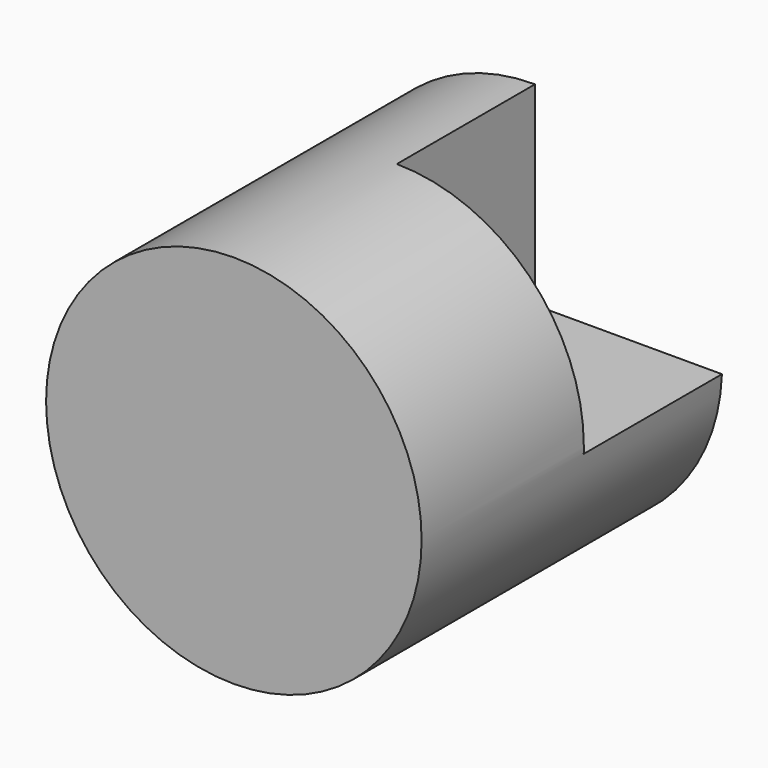
from build123d import *

# Parameters (mm, degrees)
F1_R     = 12.7
F2_DEPTH = 25.4
F0_W     = 25.4
F0_H     = 25.4
F3_DEPTH = 11.684


with BuildPart() as f2:
    # F1 (on Front) → F2 (new body)
    with BuildSketch(Plane.XZ):
        with Locations((-12.998742, 2.529787)):
            Circle(F1_R)
    extrude(amount=F2_DEPTH)

    # F0 (on Front) → F3 (cut)
    with BuildSketch(Plane.XZ):
        with Locations((-0.249595, 14.781185)):
            Rectangle(F0_W, F0_H)
    extrude(amount=F3_DEPTH, mode=Mode.SUBTRACT)


solid = f2.part
